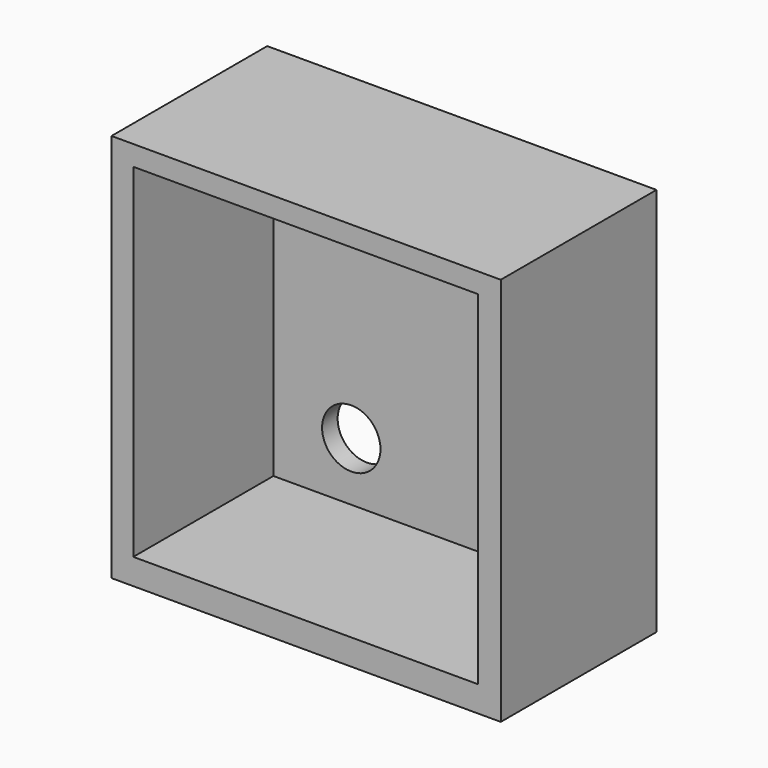
from build123d import *

# Parameters (mm, degrees)
F0_W     = 100
F0_H     = 100
F1_DEPTH = 50
F2_W     = 88.519738
F2_H     = 88.223688
F3_DEPTH = 45
F4_R     = 7.5
F5_DEPTH = 25


with BuildPart() as f1:
    # F0 (on Front) → F1 (new body)
    with BuildSketch(Plane.XZ):
        with Locations((3.404604, -5.325158)):
            Rectangle(F0_W, F0_H)
    extrude(amount=F1_DEPTH)

    # F2 (on face) → F3 (cut)
    with BuildSketch(Plane.XZ.offset(50)):
        with Locations((3.256578, -4.588816)):
            Rectangle(F2_W, F2_H)
    extrude(amount=-F3_DEPTH, mode=Mode.SUBTRACT)

    # F4 (on face) → F5 (cut)
    with BuildSketch(Plane.XZ.offset(5)):
        with Locations((-21.003291, 24.523028)):
            Circle(F4_R)
        with Locations((27.516447, 24.523028)):
            Circle(F4_R)
        with Locations((27.516447, -33.70066)):
            Circle(F4_R)
        with Locations((-21.003291, -33.70066)):
            Circle(F4_R)
    extrude(amount=-F5_DEPTH, mode=Mode.SUBTRACT)


solid = f1.part
